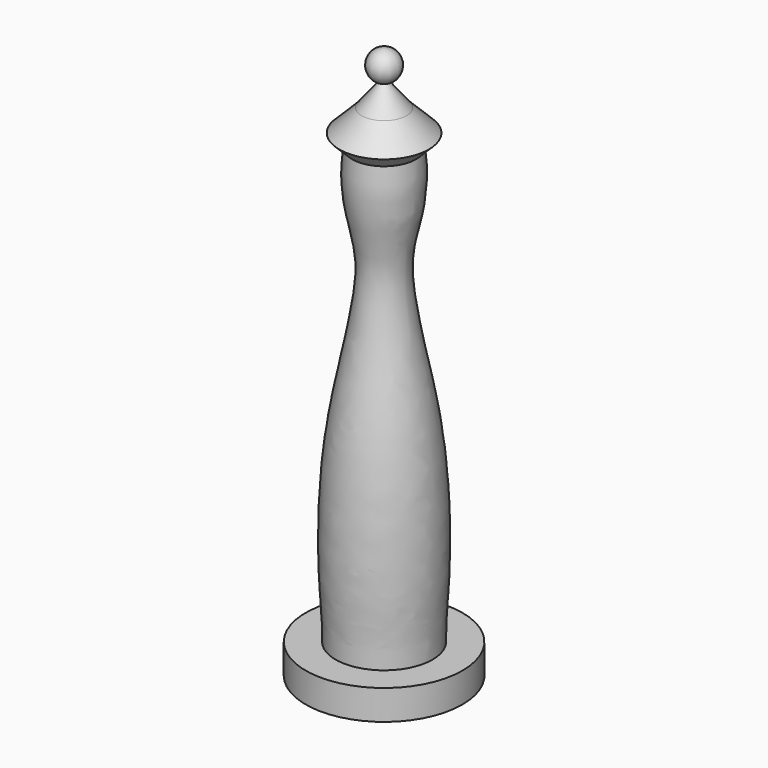
from build123d import *


with BuildPart() as f1:
    # F0 (on Front) → F1 (revolve)
    with BuildSketch(Plane.XZ):
        with BuildLine():
            Line((0, 44.45), (0, 0))
            Line((0, 0), (0, -2.54))
            Line((0, -2.54), (6.6654079201, -2.54))
            Line((6.6654079201, -2.54), (6.6654079201, 0))
            Line((6.6654079201, 0), (4.1254079201, 0))
            add(Edge.make_bspline(
                [(2.7243491478, 37.01434877), (2.9172660711, 35.6191618602), (2.8364055922, 32.1757037693), (1.0664201554, 27.9096087669), (4.4148443102, 16.489578027), (4.4669372205, 4.8023526907), (4.1254079201, 2.1266304433), (4.1254079201, 0)],
                knots=[0.0802289089, 0.0802289089, 0.0802289089, 0.0802289089, 0.1899326983, 0.3516504376, 0.5980111539, 0.8398924382, 1, 1, 1, 1], degree=3))
            add(Edge.make_bspline(
                [(1.9050000945, 40.0049999055), (2.3215219262, 39.0568329152), (2.5832645566, 38.0346811043), (2.7243491478, 37.01434877)],
                knots=[0, 0, 0, 0, 0.0802289089, 0.0802289089, 0.0802289089, 0.0802289089], degree=3))
            Line((1.9050000945, 40.0049999055), (0.3574084009, 41.9613287769))
            ThreePointArc((0.3574084009, 41.9613287769), (1.257102723, 43.360537675), (0, 44.45))
        make_face()
        with BuildLine():
            Line((3.8100001889, 38.0999998111), (1.9050000945, 40.0049999055))
            add(Edge.make_bspline(
                [(1.9050000945, 40.0049999055), (2.3215219262, 39.0568329152), (2.5832645566, 38.0346811043), (2.7243491478, 37.01434877)],
                knots=[0, 0, 0, 0, 0.0802289089, 0.0802289089, 0.0802289089, 0.0802289089], degree=3))
            Line((2.7243491478, 37.01434877), (3.8100001889, 38.0999998111))
        make_face()
    revolve(axis=Axis((0, 0, 22.225), (0, 0, 1)))


solid = f1.part
